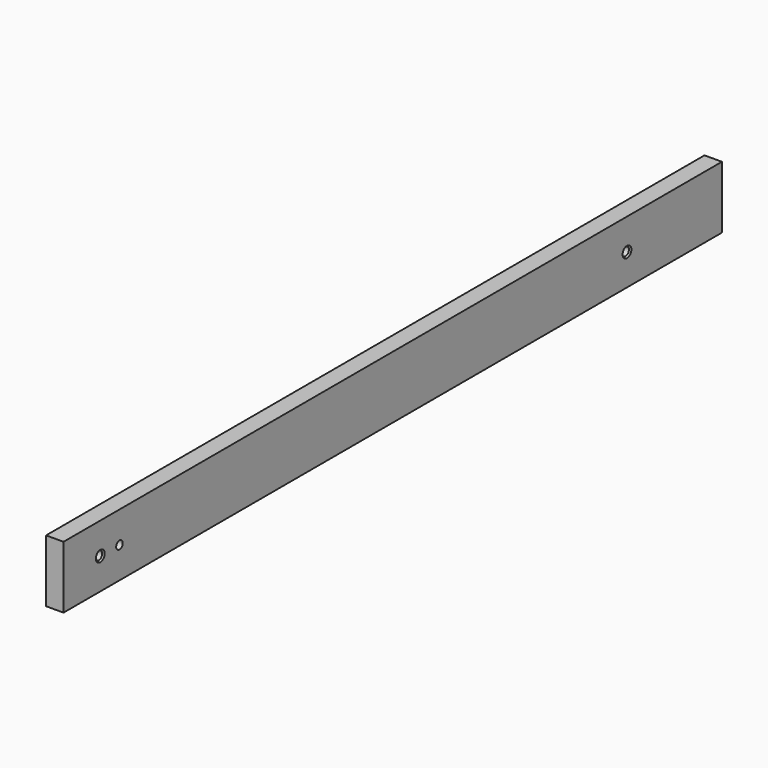
from build123d import *

# Parameters (mm, degrees)
SKETCH_W        = 12.7
SKETCH_H        = 45.5
PAD_DEPTH       = 600
SKETCH001_R     = 3
HOLE_DEPTH      = 25
CHAMFER_SIZE    = 1
CHAMFER001_SIZE = 1


with BuildPart() as part:
    # Sketch → Pad (new body)
    with BuildSketch(Plane.XZ):
        with Locations((6.35, 22.75)):
            Rectangle(SKETCH_W, SKETCH_H)
    extrude(amount=-PAD_DEPTH)

    # Sketch001 (on Face4 of Pad) → Hole (cut)
    with BuildSketch(Plane(origin=(0, 0, 0), x_dir=(0, 0, -1), z_dir=(-1, 0, 0))):
        with Locations((-22.75, -51)):
            Circle(SKETCH001_R)
        with Locations((-22.75, -33.5)):
            Circle(SKETCH001_R)
        with Locations((-22.75, -513.5)):
            Circle(SKETCH001_R)
    extrude(amount=-HOLE_DEPTH, mode=Mode.SUBTRACT)

    # Chamfer
    chamfer_edges = [part.edges().sort_by_distance(p)[0] for p in [
        (0, 516.5, 22.75),
    ]]
    chamfer(chamfer_edges, length=CHAMFER_SIZE)

    # Chamfer001
    chamfer001_edges = [part.edges().sort_by_distance(p)[0] for p in [
        (12.7, 36.5, 22.75),
        (12.7, 516.5, 22.75),
    ]]
    chamfer(chamfer001_edges, length=CHAMFER001_SIZE)


solid = part.part
